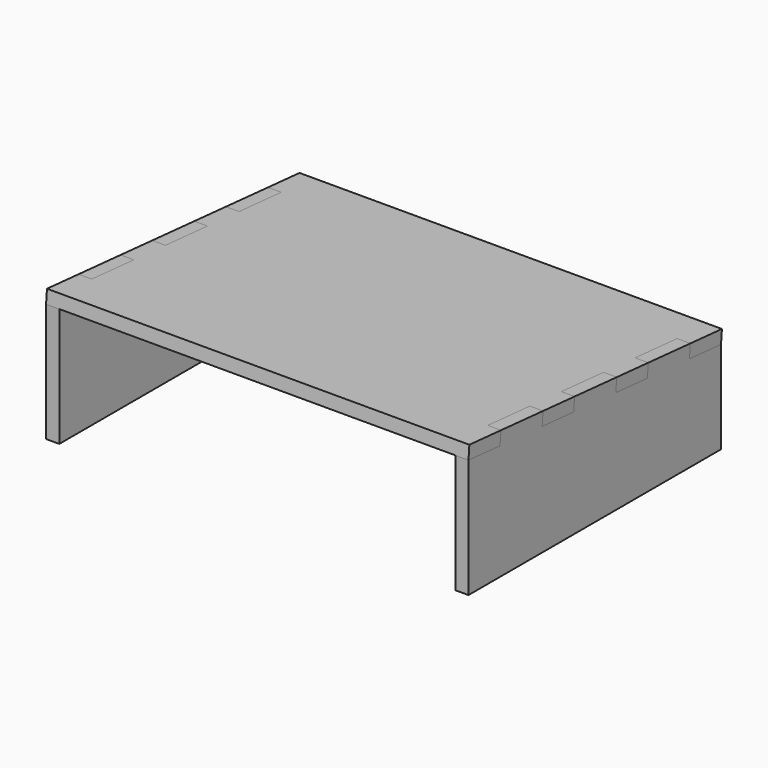
from build123d import *

# Parameters (mm, degrees)
F2_DEPTH = 12.7
F5_DEPTH = 12.7


with BuildPart() as f2:
    # F1 (on offset) → F2 (new body)
    with BuildSketch(Plane.YZ.offset(203.2)):
        Polygon((0, 114.255672), (0, 0), (303.739823, 0), (303.739823, 88.855672), (265.772345, 92.030672), (266.830678, 104.686498), (216.207375, 108.919831), (215.149041, 96.264005), (177.181563, 99.439005), (178.239897, 112.094831), (127.616593, 116.328164), (126.55826, 103.672338), (88.590782, 106.847338), (89.649115, 119.503164), (39.025811, 123.736498), (37.967478, 111.080672), align=None)
    extrude(amount=-F2_DEPTH)


with BuildPart() as f3_1:
    # F3: instance of F2
    add(f2.part.mirror(Plane.YZ))


with BuildPart() as f5:
    # F4 (on face) → F5 (new body)
    with BuildSketch(Plane(origin=(0, 9.488188, 113.46223), x_dir=(1, 0, 0), z_dir=(0, 0.083333, 0.996522))):
        Polygon((203.2, 295.278694), (190.5, 295.278694), (-203.2, 295.278694), (-203.2, 257.178694), (-190.5, 257.178694), (-190.5, 206.378694), (-203.2, 206.378694), (-203.2, 168.278694), (-190.5, 168.278694), (-190.5, 117.478694), (-203.2, 117.478694), (-203.2, 79.378694), (-190.5, 79.378694), (-190.5, 28.578694), (-203.2, 28.578694), (-203.2, -9.521306), (203.2, -9.521306), (203.2, 28.578694), (190.5, 28.578694), (190.5, 79.378694), (203.2, 79.378694), (203.2, 117.478694), (190.5, 117.478694), (190.5, 168.278694), (203.2, 168.278694), (203.2, 206.378694), (190.5, 206.378694), (190.5, 257.178694), (203.2, 257.178694), align=None)
    extrude(amount=F5_DEPTH)


solid = Compound([f2.part, f3_1.part, f5.part])
